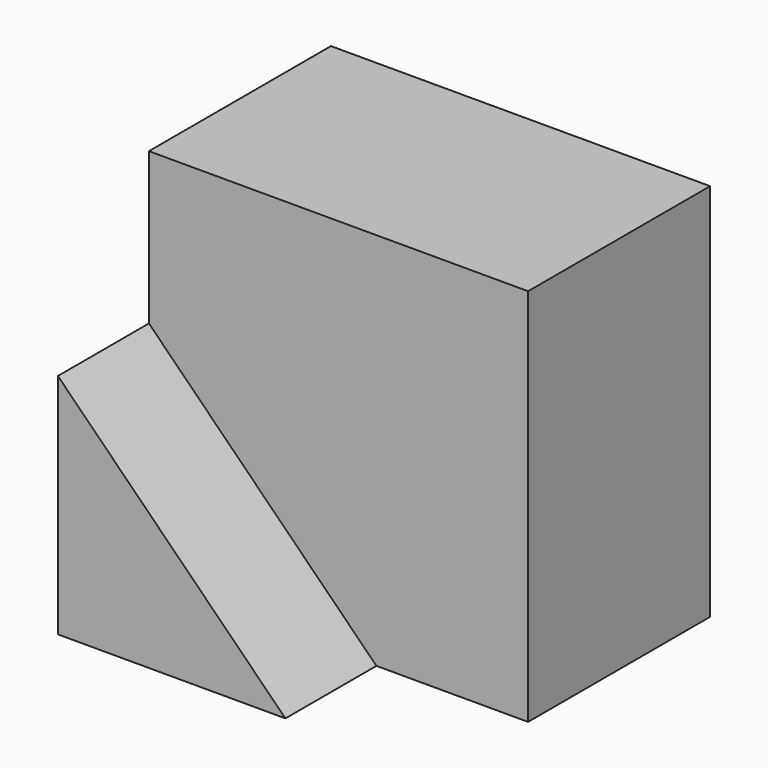
from build123d import *

# Parameters (mm, degrees)
F1_DEPTH = 15
F3_W     = 50
F3_H     = 50
F4_DEPTH = 30
F5_R     = 5
F6_DEPTH = 50


with BuildPart() as f1:
    # F0 (on Front) → F1 (new body)
    with BuildSketch(Plane.XZ):
        Polygon((0, 30), (0, 0), (30, 0), align=None)
    extrude(amount=-F1_DEPTH)

    # F3 (on offset) → F4 (join)
    with BuildSketch(Plane.XZ.offset(-15)):
        with Locations((25, 25)):
            Rectangle(F3_W, F3_H)
    extrude(amount=-F4_DEPTH)

    # F5 (on face) → F6 (join, through all)
    with BuildSketch(Plane.XY.offset(50)):
        with Locations((15, 30)):
            Circle(F5_R)
    extrude(amount=-F6_DEPTH)


solid = f1.part
